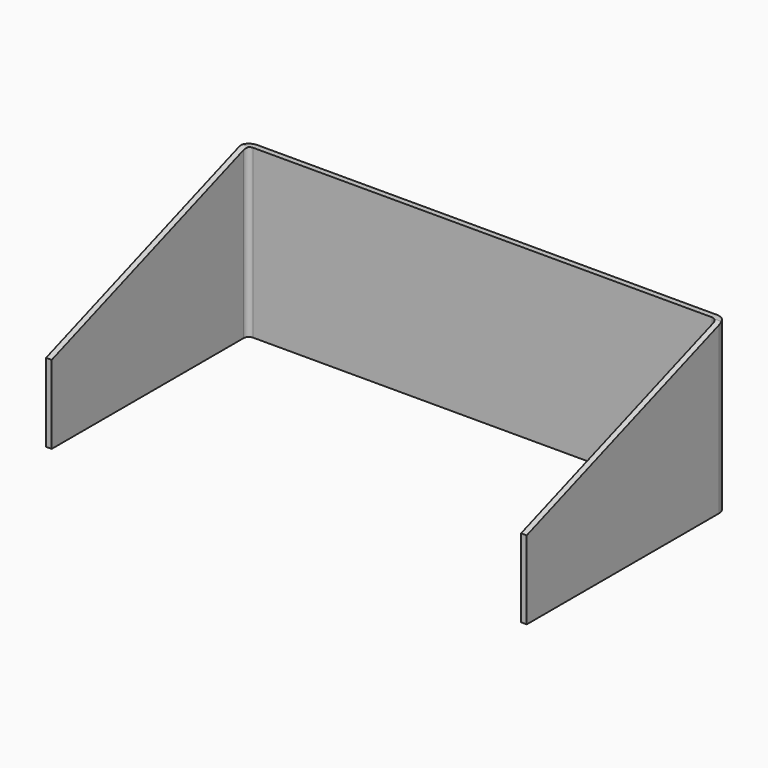
from build123d import *

# Parameters (mm, degrees)
F1_DEPTH = 101.6
F3_DEPTH = 292.101
F4_R     = 3.175
F5_R     = 6.35


with BuildPart() as f1:
    # F0 (on Top) → F1 (new body)
    with BuildSketch(Plane.XY):
        Polygon((0, 152.4), (0, 0), (3.429, 0), (3.429, 148.971), (288.671, 148.971), (288.671, 0), (292.1, 0), (292.1, 152.4), align=None)
    extrude(amount=F1_DEPTH)

    # F2 (on face) → F3 (cut, through all)
    with BuildSketch(Plane.YZ.offset(292.1)):
        Polygon((0, 101.6), (0, 47.625), (148.295094, 101.6), align=None)
    extrude(amount=-F3_DEPTH, mode=Mode.SUBTRACT)

    # F4
    f4_edges = [f1.edges().sort_by_distance(p)[0] for p in [
        (288.671, 148.971, 50.8),
        (3.429, 148.971, 50.8),
    ]]
    fillet(f4_edges, radius=F4_R)

    # F5
    f5_edges = [f1.edges().sort_by_distance(p)[0] for p in [
        (0, 152.4, 50.8),
        (292.1, 152.4, 50.8),
    ]]
    fillet(f5_edges, radius=F5_R)


solid = f1.part
